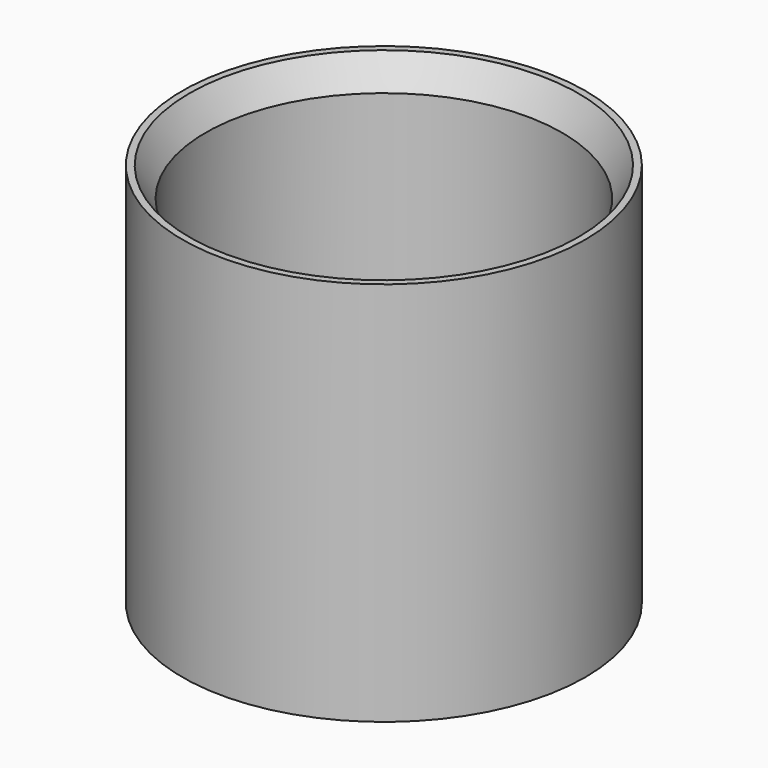
from build123d import *

# Parameters (mm, degrees)
F0_R     = 17.4371
F0_R_2   = 16.8275
F0_R_3   = 15.4305
F1_DEPTH = 31.6992
F2_DEPTH = 1.6383
F3_SIZE2 = 1.4079449907
F3_SIZE  = 2.54


with BuildPart() as f1:
    # F0 (on Top) → F1 (new body)
    with BuildSketch(Plane.XY):
        Circle(F0_R)
        Circle(F0_R_2, mode=Mode.SUBTRACT)
        Circle(F0_R_2)
        Circle(F0_R_3, mode=Mode.SUBTRACT)
    extrude(amount=F1_DEPTH)

    # F0 (on Top) → F2 (join)
    with BuildSketch(Plane.XY):
        Circle(F0_R)
        Circle(F0_R_2, mode=Mode.SUBTRACT)
        Circle(F0_R_2)
        Circle(F0_R_3, mode=Mode.SUBTRACT)
    extrude(amount=-F2_DEPTH)

    # F3
    f3_edges = [f1.edges().sort_by_distance(p)[0] for p in [
        (-15.4305, 0, 31.6992),
    ]]
    f3_side = f1.faces().sort_by_distance((-15.4305, 0, 15.8496))[0]
    chamfer(f3_edges, length=F3_SIZE, length2=F3_SIZE2, reference=f3_side)


solid = f1.part
